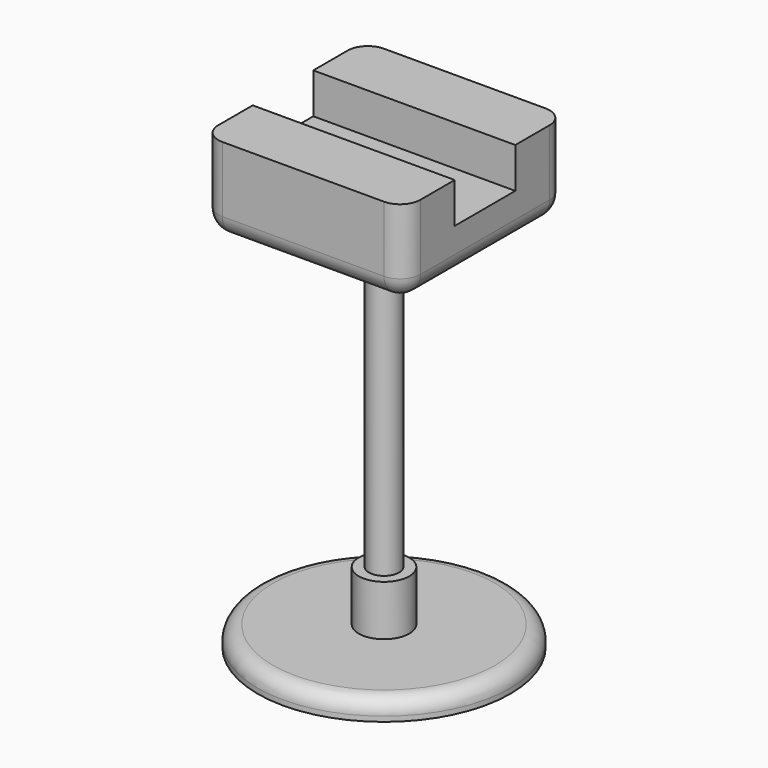
from build123d import *

# Parameters (mm, degrees)
SKETCH_R     = 125
PAD_DEPTH    = 20
SKETCH001_R  = 25
PAD001_DEPTH = 50
FILLET006_R  = 15
SKETCH002_R  = 15
PAD002_DEPTH = 300
SKETCH003_W  = 200
SKETCH003_H  = 200
PAD003_DEPTH = 45
SKETCH009_W  = 200
SKETCH009_H  = 62.5
PAD009_DEPTH = 40
FILLET005_R  = 20


with BuildPart() as body1:
    # Sketch → Pad (new body)
    with BuildSketch(Plane.XY):
        Circle(SKETCH_R)
    extrude(amount=PAD_DEPTH)

    # Sketch001 (on Face3 of Pad) → Pad001 (join)
    with BuildSketch(Plane.XY.offset(20)):
        Circle(SKETCH001_R)
    extrude(amount=PAD001_DEPTH)

    # Fillet006
    fillet006_edges = [body1.edges().sort_by_distance(p)[0] for p in [
        (-125, 0, 20),
    ]]
    fillet(fillet006_edges, radius=FILLET006_R)


with BuildPart() as body2:
    # Sketch002 (on CopyPad) → Pad002 (new body)
    with BuildSketch(Plane.XY.offset(70)):
        Circle(SKETCH002_R)
    extrude(amount=PAD002_DEPTH)


with BuildPart() as body3:
    # Sketch003 (on Face1 of CopyPad002) → Pad003 (new body)
    with BuildSketch(Plane.XY.offset(370)):
        Rectangle(SKETCH003_W, SKETCH003_H)
    extrude(amount=PAD003_DEPTH)

    # Sketch009 (on Face6 of Pad003) → Pad009 (join)
    with BuildSketch(Plane.XY.offset(415)):
        with Locations((0, 68.75)):
            Rectangle(SKETCH009_W, SKETCH009_H)
        with Locations((0, -68.75)):
            Rectangle(SKETCH009_W, SKETCH009_H)
    extrude(amount=PAD009_DEPTH)

    # Fillet005
    fillet005_edges = [body3.edges().sort_by_distance(p)[0] for p in [
        (-100, -100, 412.5),
        (100, -100, 412.5),
        (100, 100, 412.5),
        (-100, 100, 412.5),
        (0, -100, 370),
        (100, 0, 370),
        (-100, 0, 370),
        (0, 100, 370),
    ]]
    fillet(fillet005_edges, radius=FILLET005_R)


solid = Compound([body1.part, body2.part, body3.part])
